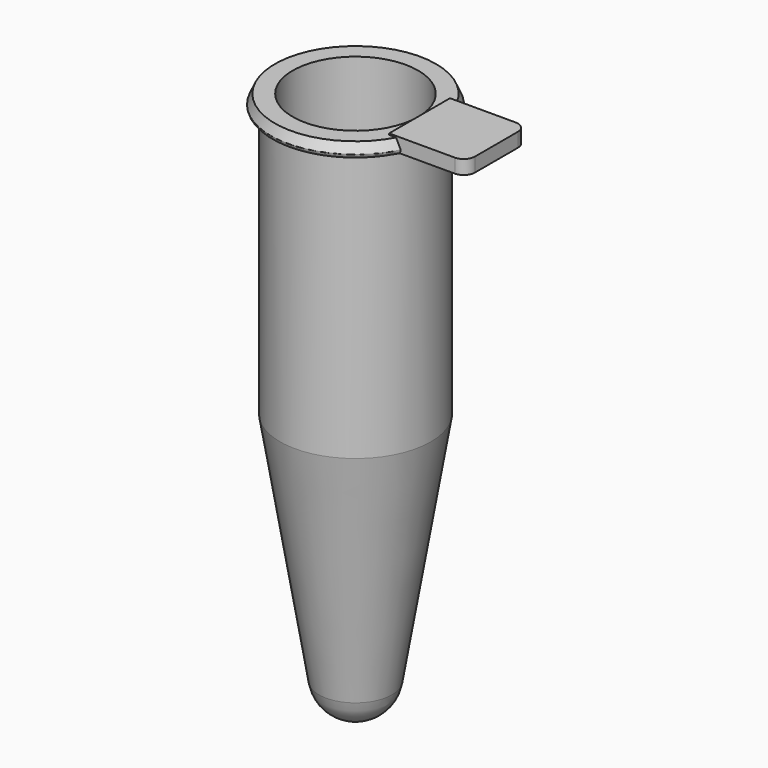
from build123d import *

# Parameters (mm, degrees)
PAD001_DEPTH = 1


with BuildPart() as hinge:
    # Sketch003 → Pad001 (new body)
    with BuildSketch(Plane.XY):
        with BuildLine():
            Line((10, 0), (10, 1.9))
            ThreePointArc((10, 1.9), (9.787661, 2.445156), (9.261032, 2.7))
            Line((4.547651, 2.7), (9.261032, 2.7))
            Line((4.547651, 0), (4.547651, 2.7))
            Line((4.547651, 0), (4.547651, -2.7))
            Line((4.547651, -2.7), (9.228747, -2.7))
            ThreePointArc((9.228747, -2.7), (9.775939, -2.45576), (10, -1.9))
            Line((10, 0), (10, -1.9))
        make_face()
    extrude(amount=PAD001_DEPTH)


with BuildPart() as hinge_1:
    # Body003 placement: moved
    add(hinge.part.moved(Location((0, 0, 38))))


with BuildPart() as body_w_hinge:
    # Sketch001 → Revolution (revolve)
    with BuildSketch(Plane.XZ):
        with BuildLine():
            Line((0, 0), (0, 1.1))
            ThreePointArc((0, 1.1), (1.180458, 1.533416), (1.8, 2.627718))
            Line((1.8, 2.627718), (4.45, 18.712917))
            Line((4.45, 18.712917), (4.45, 38.9))
            Line((4.45, 38.9), (5.714157, 38.9))
            Line((5.714157, 38.9), (6.011811, 38.234338))
            ThreePointArc((5.716101, 37.9), (5.923028, 38.014921), (6.011811, 38.234338))
            Line((5.35, 37.9), (5.716101, 37.9))
            Line((5.35, 18.9), (5.35, 37.9))
            Line((2.599788, 2.206524), (5.35, 18.9))
            ThreePointArc((0, 0), (1.704967, 0.625994), (2.599788, 2.206524))
        make_face()
    revolve(axis=Axis((0, 0, 0), (0, 0, 1)))

    # Fusion: union Hinge
    add(hinge_1.part)


solid = body_w_hinge.part
